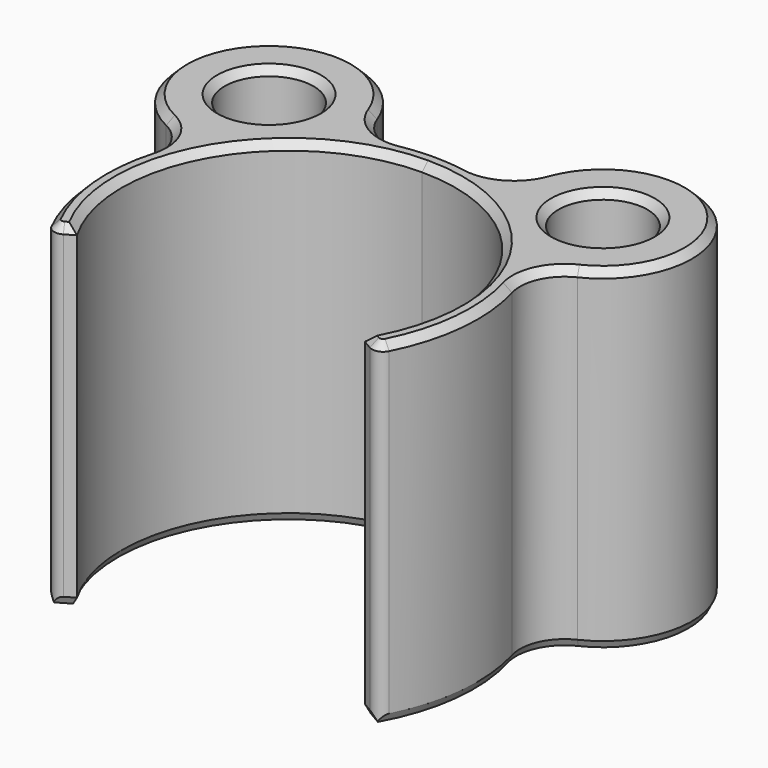
from build123d import *

# Parameters (mm, degrees)
F0_R     = 2
F1_DEPTH = 15
F2_R     = 2
F3_SIZE2 = 0.334
F3_SIZE  = 0.167
F4_R     = 0.5
F5_SIZE  = 0.334


with BuildPart() as f1:
    # F0 (on Top) → F1 (new body)
    with BuildSketch(Plane.XY):
        with BuildLine():
            ThreePointArc((0, 7.5), (6.509248113, 3.7255454638), (6.4667999415, -3.7987495992))
            Line((6.4667999415, -3.7987495992), (7.3290399337, -4.3052495457))
            ThreePointArc((7.3290399337, -4.3052495457), (8.4999852198, -0.0158512782), (7.3450462726, 4.2778844366))
            ThreePointArc((7.3450462726, 4.2778844366), (10.1862523655, 11.2386714824), (3.53743112, 7.7289443698))
            ThreePointArc((3.53743112, 7.7289443698), (1.8102448532, 8.304999312), (0, 8.5))
            Line((0, 8.5), (0, 7.5))
        make_face()
        with Locations((7.5, 8.2748819776)):
            Circle(F0_R, mode=Mode.SUBTRACT)
        with BuildLine():
            ThreePointArc((-6.4667999415, -3.7987495992), (-6.509248113, 3.7255454638), (0, 7.5))
            Line((0, 7.5), (0, 8.5))
            ThreePointArc((0, 8.5), (-1.8102448532, 8.304999312), (-3.53743112, 7.7289443698))
            ThreePointArc((-3.53743112, 7.7289443698), (-10.1862523655, 11.2386714824), (-7.3450462726, 4.2778844366))
            ThreePointArc((-7.3450462726, 4.2778844366), (-8.4999852198, -0.0158512782), (-7.3290399337, -4.3052495457))
            Line((-7.3290399337, -4.3052495457), (-6.4667999415, -3.7987495992))
        make_face()
        with Locations((-7.5, 8.2748819776)):
            Circle(F0_R, mode=Mode.SUBTRACT)
    extrude(amount=F1_DEPTH)

    # F2
    f2_edges = [f1.edges().sort_by_distance(p)[0] for p in [
        (7.345046, 4.277884, 7.5),
        (3.537431, 7.728944, 7.5),
        (-3.537431, 7.728944, 7.5),
        (-7.345046, 4.277884, 7.5),
    ]]
    fillet(f2_edges, radius=F2_R)

    # F3
    f3_edges = [f1.edges().sort_by_distance(p)[0] for p in [
        (8.431287, -1.078612, 0),
        (8.276969, 3.688682, 0),
        (6.89792, -4.052, 0),
        (10.186252, 11.238671, 0),
        (0, 7.5, 0),
        (2.859731, 8.598635, 0),
        (-6.89792, -4.052, 0),
        (0, 8.5, 0),
        (-8.431287, -1.078612, 0),
        (-2.859731, 8.598635, 0),
        (-8.276969, 3.688682, 0),
        (-10.186252, 11.238671, 0),
        (5.5, 8.274882, 0),
        (-9.5, 8.274882, 0),
    ]]
    f3_side = f1.faces().sort_by_distance((8.150047, -1.042633, 0))[0]
    chamfer(f3_edges, length=F3_SIZE, length2=F3_SIZE2, reference=f3_side)

    # F4
    f4_edges = [f1.edges().sort_by_distance(p)[0] for p in [
        (-7.32904, -4.30525, 7.667),
        (7.32904, -4.30525, 7.667),
    ]]
    fillet(f4_edges, radius=F4_R)

    # F5
    f5_edges = [f1.edges().sort_by_distance(p)[0] for p in [
        (8.460888, -0.814478, 15),
        (7.278526, -4.092712, 15),
        (8.276969, 3.688682, 15),
        (6.675617, -3.921414, 15),
        (10.186252, 11.238671, 15),
        (0, 7.5, 15),
        (2.859731, 8.598635, 15),
        (-6.675617, -3.921414, 15),
        (0, 8.5, 15),
        (-7.278526, -4.092712, 15),
        (-2.859731, 8.598635, 15),
        (-8.460888, -0.814478, 15),
        (-10.186252, 11.238671, 15),
        (-8.276969, 3.688682, 15),
        (5.5, 8.274882, 15),
        (-9.5, 8.274882, 15),
    ]]
    chamfer(f5_edges, length=F5_SIZE)


solid = f1.part
